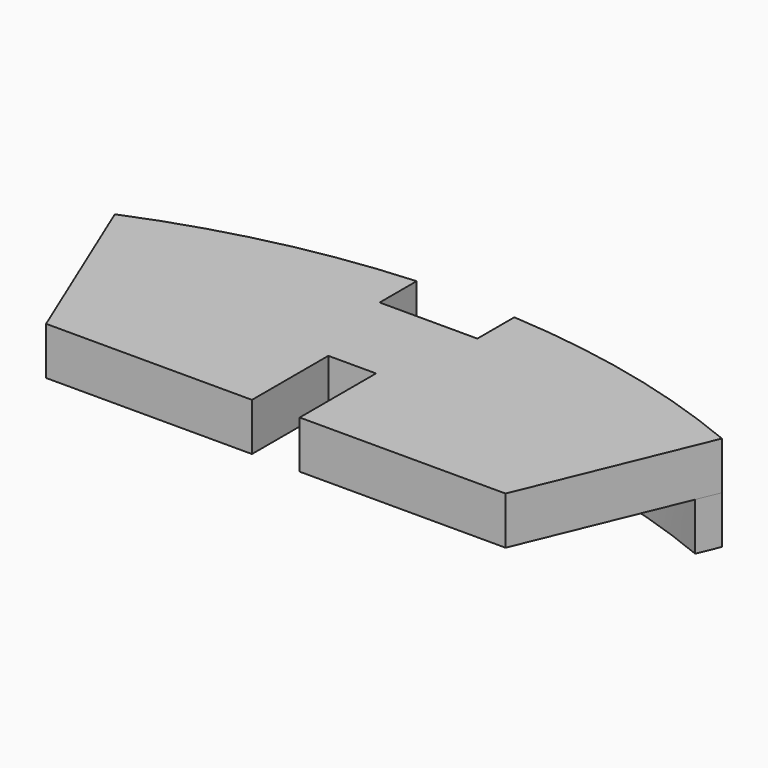
from build123d import *

# Parameters (mm, degrees)
F1_DEPTH      = 6.35
F2_W          = 3.175
F2_H          = 6.35
F4_ANGLE_BACK = 22.5
F4_ANGLE      = 45
F5_W          = 6.35
F5_H          = 12.7
F5_W_2        = 13.0048
F6_DEPTH      = 12.7


with BuildPart() as f1:
    # F0 (on Top) → F1 (new body)
    with BuildSketch(Plane.XY):
        with BuildLine():
            Line((30.5767274074, 73.81875), (40.3994116005, 97.5328073978))
            ThreePointArc((40.3994116005, 97.5328073978), (0, 105.56875), (-40.3994116005, 97.5328073978))
            Line((-40.3994116005, 97.5328073978), (-30.5767274074, 73.81875))
            Line((-30.5767274074, 73.81875), (30.5767274074, 73.81875))
        make_face()
    extrude(amount=F1_DEPTH)

    # F2 (on Right) → F4 (revolve)
    with BuildSketch(Plane.YZ, mode=Mode.PRIVATE) as f4_sk:
        with Locations((103.98125, -3.175)):
            Rectangle(F2_W, F2_H)
    revolve(f4_sk.sketch.rotate(Axis((0, 0, 6.6674984992), (0, 0, -1)), -F4_ANGLE_BACK), axis=Axis((0, 0, 6.6674984992), (0, 0, -1)), revolution_arc=F4_ANGLE)

    # F5 (on face) → F6 (cut, symmetric)
    with BuildSketch(Plane(origin=(0, 0, 0), x_dir=(1, 0, 0), z_dir=(0, 0, -1))):
        with Locations((0, -80.16875)):
            Rectangle(F5_W, F5_H)
        with Locations((0, -105.56875)):
            Rectangle(F5_W_2, F5_H)
    extrude(amount=F6_DEPTH, both=True, mode=Mode.SUBTRACT)


solid = f1.part
